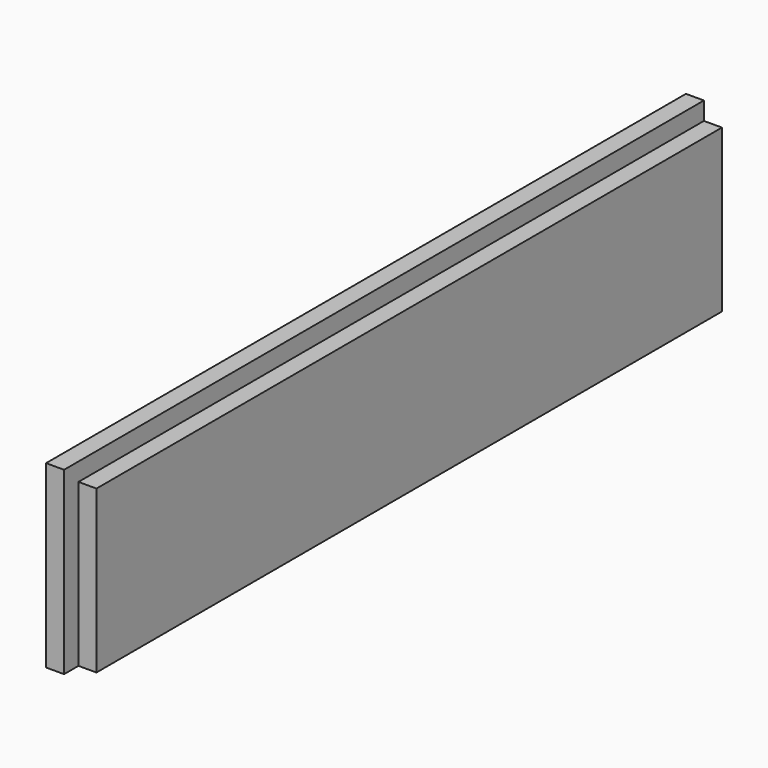
from build123d import *

# Parameters (mm, degrees)
F0_W     = 200
F0_H     = 45
F1_DEPTH = 9
F2_W     = 4.5
F2_H     = 4.5
F3_DEPTH = 200.001
F4_W     = 4.5
F4_H     = 4.5
F5_DEPTH = 40.5


with BuildPart() as f1:
    # F0 (on Right) → F1 (new body)
    with BuildSketch(Plane.YZ):
        Rectangle(F0_W, F0_H)
    extrude(amount=F1_DEPTH)

    # F2 (on face) → F3 (cut, through all)
    with BuildSketch(Plane.XZ.offset(100)):
        with Locations((6.75, 20.25)):
            Rectangle(F2_W, F2_H)
    extrude(amount=-F3_DEPTH, mode=Mode.SUBTRACT)

    # F4 (on face) → F5 (cut, through all)
    with BuildSketch(Plane.XY.offset(18)):
        with Locations((6.75, -97.75)):
            Rectangle(F4_W, F4_H)
    extrude(amount=-F5_DEPTH, mode=Mode.SUBTRACT)


solid = f1.part
